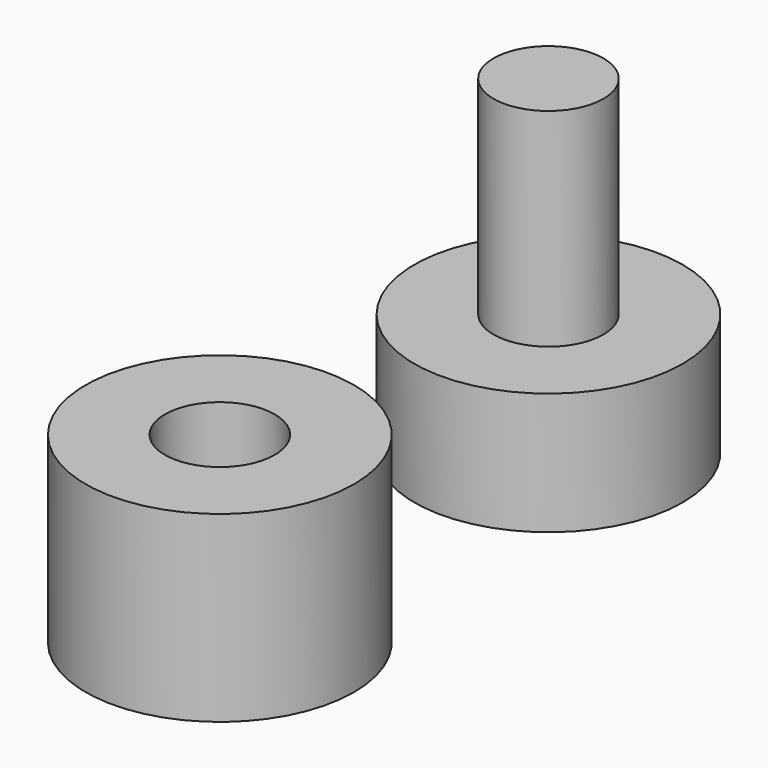
from build123d import *

# Parameters (mm, degrees)
F0_R     = 11
F1_DEPTH = 10
F2_R     = 4.5
F3_DEPTH = 17
F4_R     = 11
F5_DEPTH = 15
F6_R     = 4.5
F7_DEPTH = 10


with BuildPart() as f1:
    # F0 (on Top) → F1 (new body)
    with BuildSketch(Plane.XY):
        Circle(F0_R)
    extrude(amount=F1_DEPTH)

    # F2 (on face) → F3 (join)
    with BuildSketch(Plane.XY.offset(10)):
        Circle(F2_R)
    extrude(amount=F3_DEPTH)


with BuildPart() as f5:
    # F4 (on Top) → F5 (new body)
    with BuildSketch(Plane.XY):
        with Locations((0, -33.659276)):
            Circle(F4_R)
    extrude(amount=F5_DEPTH)

    # F6 (on face) → F7 (cut)
    with BuildSketch(Plane.XY.offset(15)):
        with Locations((0, -33.659276)):
            Circle(F6_R)
    extrude(amount=-F7_DEPTH, mode=Mode.SUBTRACT)


solid = Compound([f1.part, f5.part])
